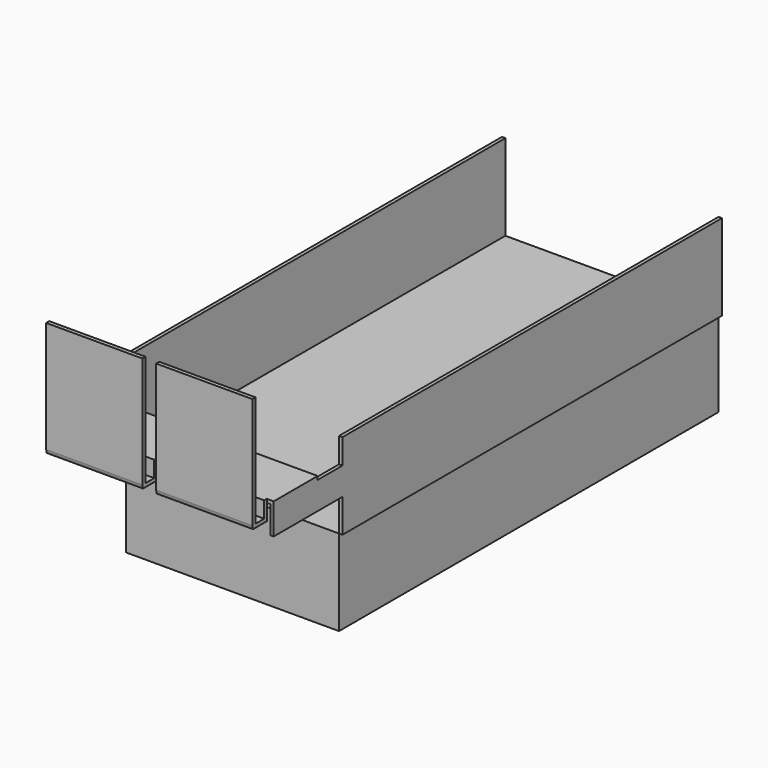
from build123d import *

# Parameters (mm, degrees)
F0_W      = 62
F0_H      = 138
F1_DEPTH  = 25
F2_W      = 1
F2_H      = 138
F3_DEPTH  = 25
F5_W      = 25
F5_H      = 8
F6_DEPTH  = 1
F7_W      = 16
F7_H      = 1
F8_DEPTH  = 30
F10_DEPTH = 28


with BuildPart() as f1:
    # F0 (on Top) → F1 (new body)
    with BuildSketch(Plane.XY):
        Rectangle(F0_W, F0_H)
    extrude(amount=F1_DEPTH)


with BuildPart() as f3:
    # F2 (on face) → F3 (new body)
    with BuildSketch(Plane.XY.offset(25)):
        with Locations((-31.5, 0)):
            Rectangle(F2_W, F2_H)
    extrude(amount=F3_DEPTH)

    # F5 (on face) → F6 (join, through all)
    with BuildSketch(Plane(origin=(-32, 0, 0), x_dir=(0, -1, 0), z_dir=(-1, 0, 0))):
        with Locations((81.5, 38.7235513926)):
            Rectangle(F5_W, F5_H)
    extrude(amount=-F6_DEPTH)

    # F7 (on face) → F8 (join)
    with BuildSketch(Plane(origin=(-32, 0, 0), x_dir=(0, -1, 0), z_dir=(-1, 0, 0))):
        with Locations((86, 43.2235513926)):
            Rectangle(F7_W, F7_H)
    extrude(amount=-F8_DEPTH)

    # F9 (on face) → F10 (join)
    with BuildSketch(Plane.YZ.offset(-2)):
        Polygon((-94, 42.7235513926), (-94, 43.7235513926), (-94.965338707, 43.7235513926), (-94.965338707, 39.0134323388), (-98.1440097094, 39.0134323388), (-98.1440097094, 71.4083015919), (-99.2697253823, 71.4083015919), (-99.2697253823, 39.0134323388), (-99.009655416, 37.9822161049), (-94.965338707, 37.9822161049), (-94, 37.9822161049), align=None)
    extrude(amount=-F10_DEPTH)


with BuildPart() as f3b:
    # F2 (on face) → F3, piece 2 (new body)
    with BuildSketch(Plane.XY.offset(25)):
        with Locations((31.5, 0)):
            Rectangle(F2_W, F2_H)
    extrude(amount=F3_DEPTH)


with BuildPart() as f12_1:
    # F12: instance of F3
    add(f3.part.mirror(Plane.YZ))


solid = Compound([f1.part, f3.part, f12_1.part])
